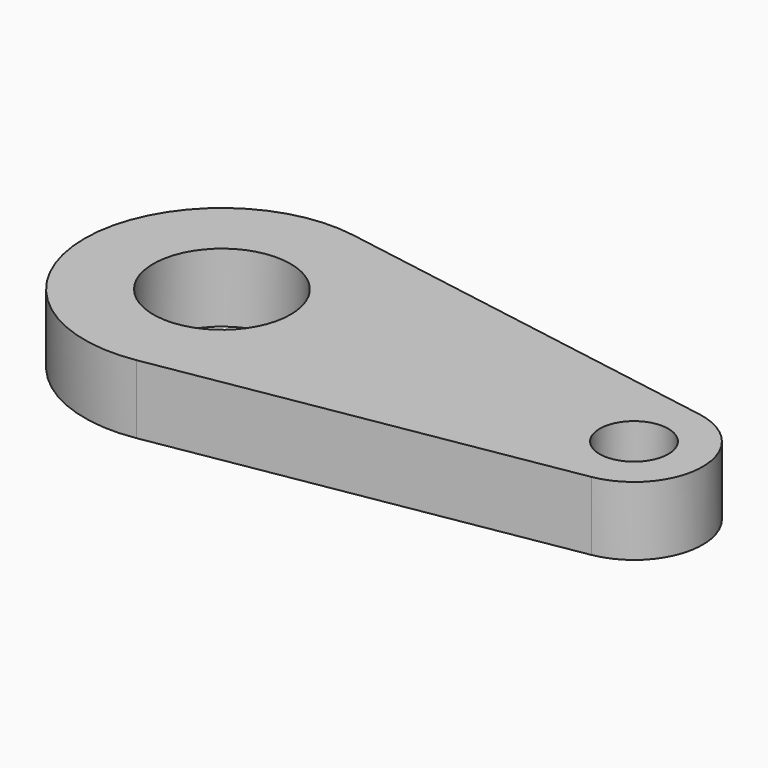
from build123d import *

# Parameters (mm, degrees)
F0_R     = 12.7
F0_R_2   = 6.35
F1_DEPTH = 12.7


with BuildPart() as f1:
    # F0 (on Top) → F1 (new body)
    with BuildSketch(Plane.XY):
        with BuildLine():
            Line((78.316667, 12.522369), (4.233333, 25.044738))
            ThreePointArc((4.233333, 25.044738), (-25.4, 0), (4.233333, -25.044738))
            Line((4.233333, -25.044738), (78.316667, -12.522369))
            ThreePointArc((78.316667, -12.522369), (88.9, 0), (78.316667, 12.522369))
        make_face()
        Circle(F0_R, mode=Mode.SUBTRACT)
        with Locations((76.2, 0)):
            Circle(F0_R_2, mode=Mode.SUBTRACT)
    extrude(amount=F1_DEPTH)


solid = f1.part
